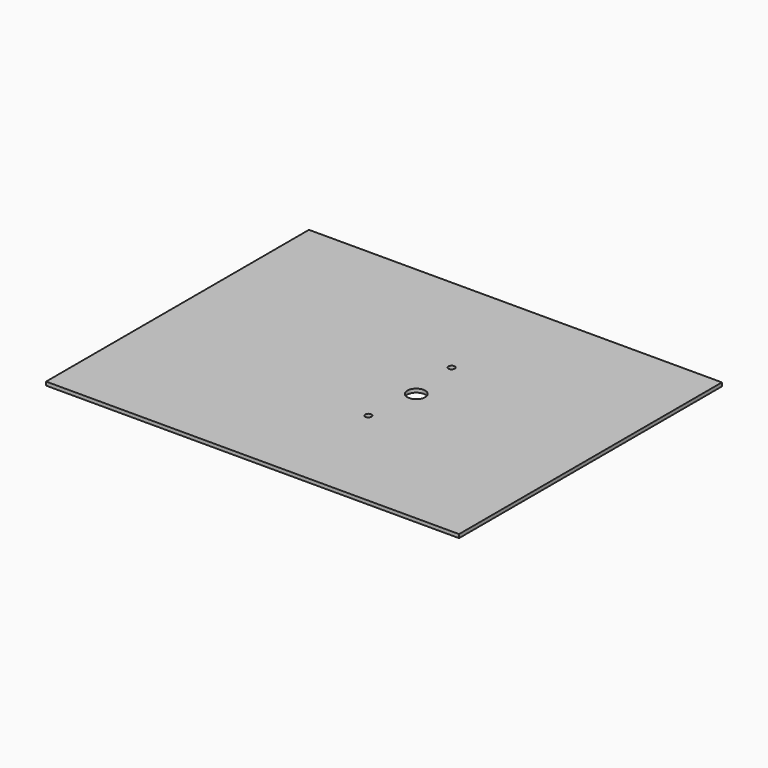
from build123d import *

# Parameters (mm, degrees)
F0_W     = 230
F0_H     = 183
F1_DEPTH = 2
F2_R     = 5
F3_DEPTH = 2.001
F4_R     = 1.75
F5_DEPTH = 2.001


with BuildPart() as f1:
    # F0 (on Top) → F1 (new body)
    with BuildSketch(Plane.XY):
        Rectangle(F0_W, F0_H)
    extrude(amount=F1_DEPTH)

    # F2 (on face) → F3 (cut, through all)
    with BuildSketch(Plane.XY.offset(2)):
        with Locations((17.969329, 0)):
            Circle(F2_R)
    extrude(amount=-F3_DEPTH, mode=Mode.SUBTRACT)

    # F4 (on face) → F5 (cut, through all)
    with BuildSketch(Plane.XY.offset(2)):
        with Locations((14.469329, 29)):
            Circle(F4_R)
        with Locations((14.469329, -29)):
            Circle(F4_R)
    extrude(amount=-F5_DEPTH, mode=Mode.SUBTRACT)


solid = f1.part
